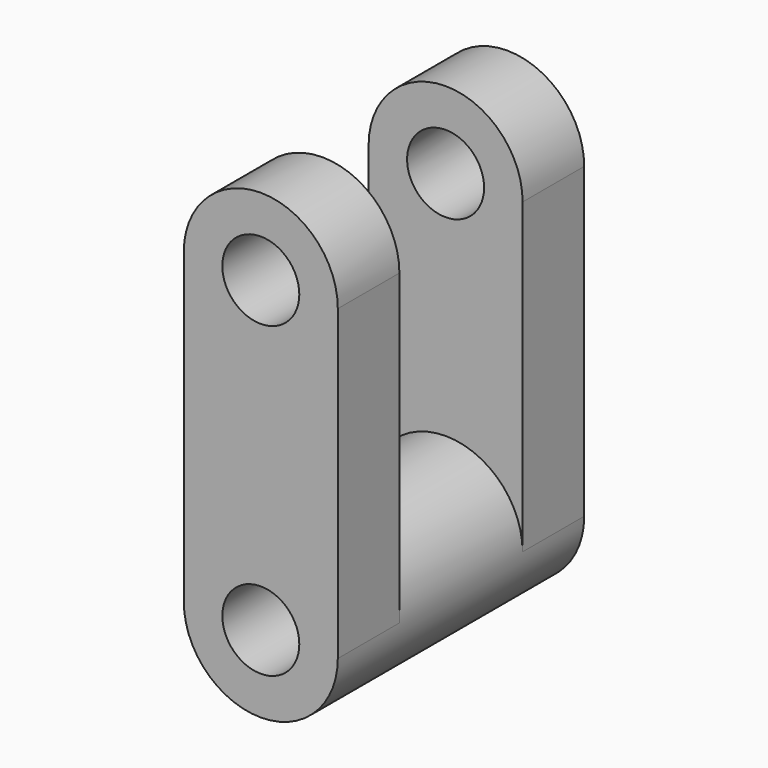
from build123d import *

# Parameters (mm, degrees)
F0_R     = 12.7
F1_DEPTH = 25.4
F2_R     = 25.4
F3_DEPTH = 25.4
F4_R     = 12.7
F5_DEPTH = 50.801


with BuildPart() as f1:
    # F0 (on Front) → F1 (new body)
    with BuildSketch(Plane.XZ):
        with BuildLine():
            ThreePointArc((25.4, 50.8), (0, 76.2), (-25.4, 50.8))
            Line((-25.4, 50.8), (-25.4, -50.8))
            ThreePointArc((-25.4, -50.8), (0, -76.2), (25.4, -50.8))
            Line((25.4, -50.8), (25.4, 50.8))
        make_face()
        with Locations((0, -50.8)):
            Circle(F0_R, mode=Mode.SUBTRACT)
        with Locations((0, 50.8)):
            Circle(F0_R, mode=Mode.SUBTRACT)
    extrude(amount=F1_DEPTH)

    # F2 (on face) → F3 (join)
    with BuildSketch(Plane(origin=(0, 0, 0), x_dir=(-1, 0, 0), z_dir=(0, 1, 0))):
        with Locations((0, -50.8)):
            Circle(F2_R)
    extrude(amount=F3_DEPTH)

    # F4 (on face) → F5 (cut, through all)
    with BuildSketch(Plane.XZ.offset(25.4)):
        with Locations((0, -50.8)):
            Circle(F4_R)
    extrude(amount=-F5_DEPTH, mode=Mode.SUBTRACT)

    # F6: F1 across face


with BuildPart() as f1_1:
    add(f1.part)
    add(f1.part.mirror(Plane(origin=(0, 25.4, -50.8), x_dir=(-1, 0, 0), z_dir=(0, 1, 0))))


solid = f1_1.part
